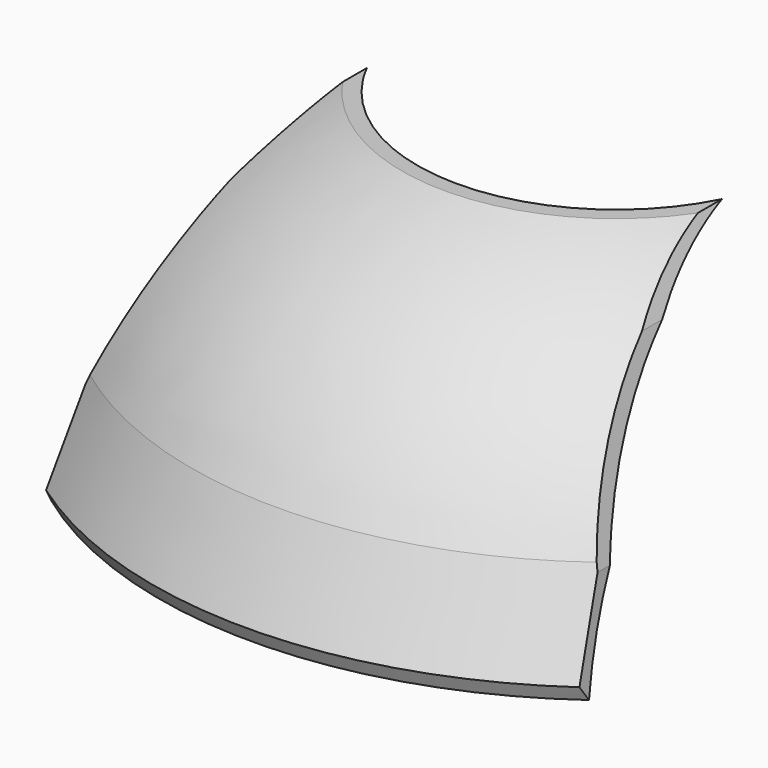
from build123d import *

# Parameters (mm, degrees)
F3_DEPTH = 289.29368


with BuildPart() as f3:
    # F2 (on offset) → F3 (new body)
    with BuildSketch(Plane.XZ.offset(300)):
        Polygon((51, 124.5), (0, 124.5), (-51, 124.5), (-59.060369, 109.5), (-73.518977, 67), (-78.070767, 32), (0, 32), (78.070767, 32), (73.518977, 67), (59.060369, 109.5), align=None)
    extrude(amount=-F3_DEPTH)

    # F0 (on Front) → F4 (revolve, intersect)
    with BuildSketch(Plane.XZ):
        with BuildLine():
            ThreePointArc((-131.329316, 39.007829), (-124.423107, 57.34013), (-114.972823, 74.5))
            ThreePointArc((-114.972823, 74.5), (-84.913273, 107.511562), (-45.835608, 129.104985))
            Line((-45.835608, 129.104985), (-48.82597, 129.104985))
            ThreePointArc((-48.82597, 129.104985), (-91.4719, 106.426944), (-122.131977, 69.104985))
            Line((-122.131977, 69.104985), (-133.251449, 43.192627))
            Line((-133.251449, 43.192627), (-131.329316, 39.007829))
        make_face()
    revolve(axis=Axis((0, 0, 84.5), (0, 0, 1)), mode=Mode.INTERSECT)


solid = f3.part
